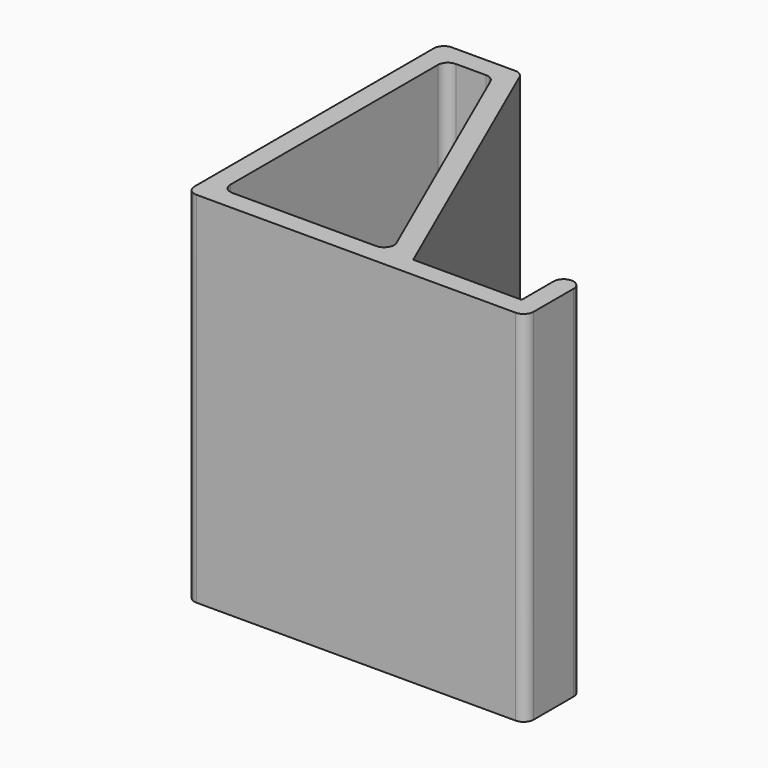
from build123d import *

# Parameters (mm, degrees)
F1_DEPTH = 57.15


with BuildPart() as f1:
    # F0 (on Top) → F1 (new body)
    with BuildSketch(Plane.XY):
        with BuildLine():
            ThreePointArc((0, 1.5875), (0.464968, 0.464968), (1.5875, 0))
            Line((1.5875, 0), (34.925, 0))
            Line((34.925, 0), (33.535938, 3.175))
            Line((33.535938, 3.175), (13.11615, 49.8488))
            ThreePointArc((13.11615, 49.8488), (12.530666, 50.541086), (11.66175, 50.8))
            Line((11.66175, 50.8), (1.5875, 50.8))
            ThreePointArc((1.5875, 50.8), (0.464968, 50.335032), (0, 49.2125))
            Line((0, 49.2125), (0, 1.5875))
        make_face()
        with BuildLine():
            ThreePointArc((4.7625, 3.175), (3.639968, 3.639968), (3.175, 4.7625))
            Line((3.175, 4.7625), (3.175, 46.0375))
            ThreePointArc((3.175, 46.0375), (3.639968, 47.160032), (4.7625, 47.625))
            Line((4.7625, 47.625), (9.585251, 47.625))
            ThreePointArc((9.585251, 47.625), (10.454167, 47.366086), (11.039651, 46.6738))
            Line((11.039651, 46.6738), (29.097463, 5.3988))
            ThreePointArc((29.097463, 5.3988), (28.971649, 3.893584), (27.643063, 3.175))
            Line((27.643063, 3.175), (4.7625, 3.175))
        make_face(mode=Mode.SUBTRACT)
        with BuildLine():
            Line((33.535938, 3.175), (34.925, 0))
            Line((34.925, 0), (52.3875, 0))
            ThreePointArc((52.3875, 0), (53.510032, 0.464968), (53.975, 1.5875))
            Line((53.975, 1.5875), (53.975, 9.525))
            ThreePointArc((53.975, 9.525), (53.510032, 10.647532), (52.3875, 11.1125))
            ThreePointArc((52.3875, 11.1125), (51.264968, 10.647532), (50.8, 9.525))
            Line((50.8, 9.525), (50.8, 3.175))
            Line((50.8, 3.175), (33.535938, 3.175))
        make_face()
    extrude(amount=F1_DEPTH)


solid = f1.part
